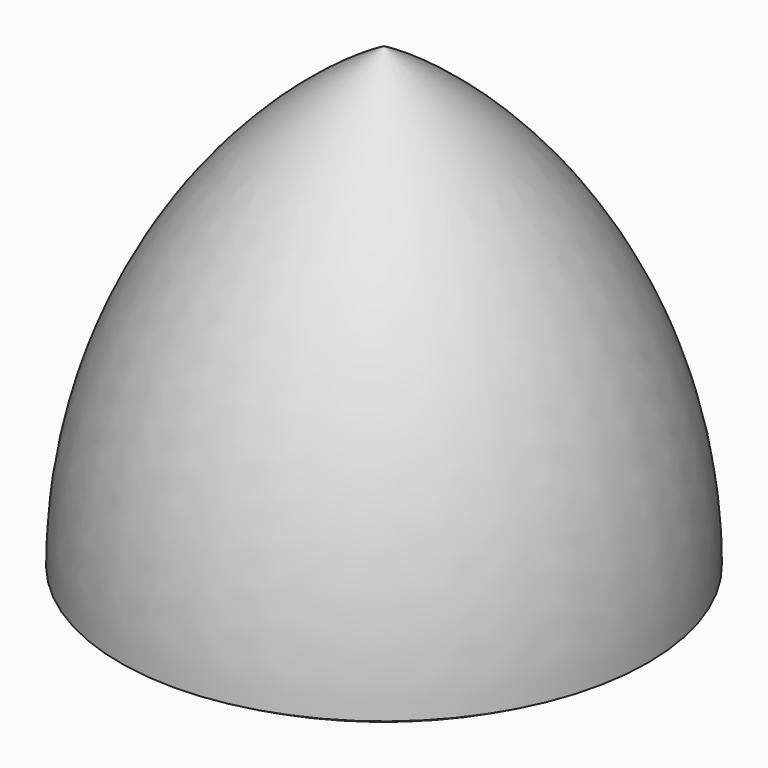
from build123d import *


with BuildPart() as f1:
    # F0 (on Front) → F1 (revolve)
    with BuildSketch(Plane.XZ):
        with BuildLine():
            Line((0, -6.985254), (0, 0))
            Line((0, 0), (-26.069324, 0))
            ThreePointArc((-26.069324, 0), (-13.494475, -5.208673), (0, -6.985254))
        make_face()
        Polygon((-26.069324, 0), (0, 0), (0, 45.153394), align=None)
        with BuildLine():
            Line((-26.069324, 0), (0, 45.153394))
            ThreePointArc((0, 45.153394), (-19.08407, 26.069324), (-26.069324, 0))
        make_face()
    revolve(axis=Axis((0, 0, 19.08407), (0, 0, -1)))


solid = f1.part
